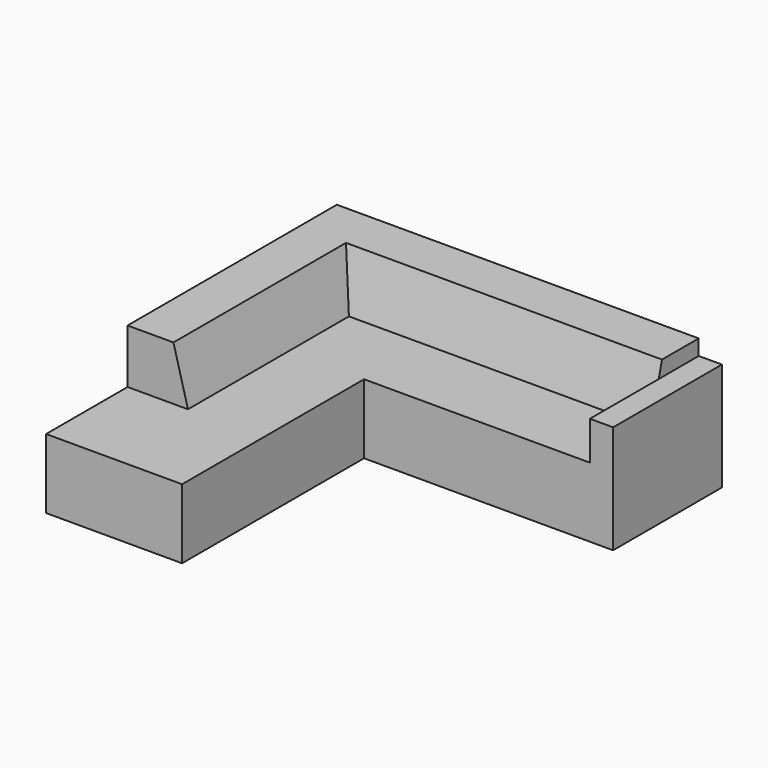
from build123d import *

# Parameters (mm, degrees)
F1_DEPTH = 450
F2_W     = 879.475
F2_H     = 150
F2_W_2   = 150
F2_H_2   = 879.475
F3_DEPTH = 250
F5_DEPTH = 2200
F8_W     = 658.5683822632
F8_H     = 350
F9_DEPTH = 879.476


with BuildPart() as f1:
    # F0 (on Top) → F1 (new body)
    with BuildSketch(Plane.XY):
        Polygon((0, 2350), (0, 0), (879.475, 0), (879.475, 1470.525), (2490, 1470.525), (2490, 2350), align=None)
    extrude(amount=F1_DEPTH)

    # F2 (on face) → F3 (join)
    with BuildSketch(Plane.XY.offset(450)):
        with Locations((439.7375, 75)):
            Rectangle(F2_W, F2_H)
        with Locations((2415, 1910.2625)):
            Rectangle(F2_W_2, F2_H_2)
    extrude(amount=F3_DEPTH)

    # F4 (on face) → F5 (join, through all)
    with BuildSketch(Plane(origin=(0, 150, 0), x_dir=(-1, 0, 0), z_dir=(0, 1, 0))):
        Polygon((-390.525, 450), (0, 450), (0, 800), (-296.7427826491, 800), align=None)
    extrude(amount=F5_DEPTH)

    # F6 (on face) → F7 (join, up to the next surface of F1)
    with BuildSketch(Plane(origin=(2340, 0, 0), x_dir=(0, -1, 0), z_dir=(-1, 0, 0))):
        Polygon((-2350, 800), (-2350, 450), (-1959.475, 450), (-2053.2572173509, 800), align=None)
    extrude(until=Until.NEXT)

    # F8 (on face) → F9 (cut, through all)
    with BuildSketch(Plane.YZ.offset(879.475)):
        with Locations((329.2841911316, 625)):
            Rectangle(F8_W, F8_H)
    extrude(amount=-F9_DEPTH, mode=Mode.SUBTRACT)


solid = f1.part
